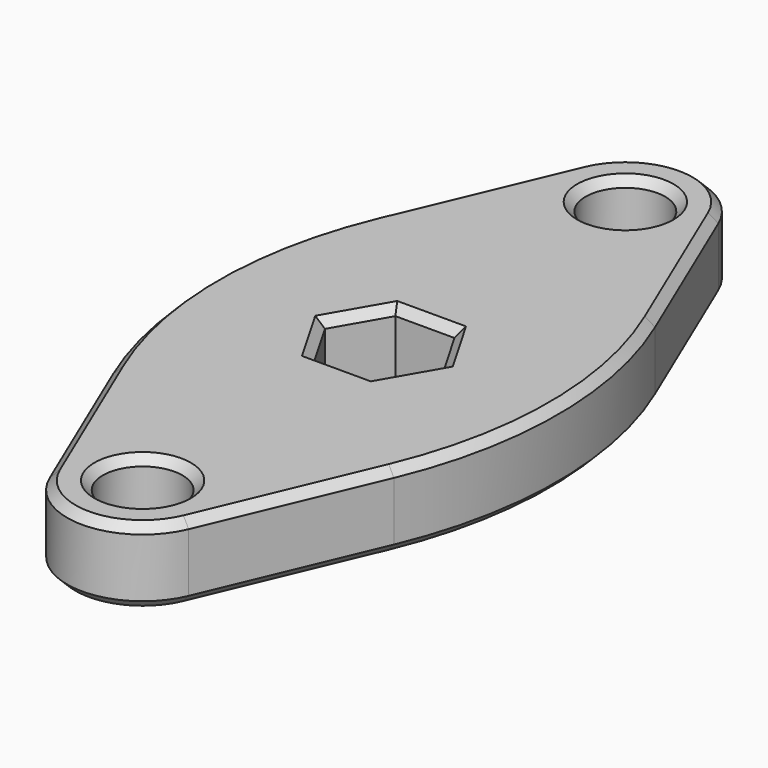
from build123d import *

# Parameters (mm, degrees)
F0_R     = 4.75
F1_DEPTH = 4.5
F2_R     = 50
F3_SIZE  = 1
F5_DEPTH = 25
F6_SIZE  = 1


with BuildPart() as f1:
    # F0 (on Top) → F1 (new body, symmetric)
    with BuildSketch(Plane.XY):
        with BuildLine():
            Line((25, 0), (8.288939, 39.506208))
            ThreePointArc((8.288939, 39.506208), (0, 45), (-8.288939, 39.506208))
            Line((-8.288939, 39.506208), (-25, 0))
            Line((-25, 0), (-8.288939, -39.506208))
            ThreePointArc((-8.288939, -39.506208), (0, -45), (8.288939, -39.506208))
            Line((8.288939, -39.506208), (25, 0))
        make_face()
        with Locations((0, -36)):
            Circle(F0_R, mode=Mode.SUBTRACT)
        with Locations((0, 36)):
            Circle(F0_R, mode=Mode.SUBTRACT)
    extrude(amount=F1_DEPTH, both=True)

    # F2
    f2_edges = [f1.edges().sort_by_distance(p)[0] for p in [
        (-25, 0, 0),
        (25, 0, 0),
    ]]
    fillet(f2_edges, radius=F2_R)

    # F3
    f3_edges = [f1.edges().sort_by_distance(p)[0] for p in [
        (0, 45, 4.5),
        (0, 45, -4.5),
        (-12.524692, -29.492569, 4.5),
        (-12.524692, -29.492569, -4.5),
    ]]
    chamfer(f3_edges, length=F3_SIZE)

    # F4 (on face) → F5 (cut)
    with BuildSketch(Plane.XY.offset(4.5)):
        Polygon((-3.525, 6.105479), (-7.05, 0), (-3.525, -6.105479), (3.525, -6.105479), (7.05, 0), (3.525, 6.105479), align=None)
    extrude(amount=-F5_DEPTH, mode=Mode.SUBTRACT)

    # F6
    f6_edges = [f1.edges().sort_by_distance(p)[0] for p in [
        (-4.75, 36, 4.5),
        (-4.75, 36, -4.5),
        (-4.75, -36, 4.5),
        (-4.75, -36, -4.5),
        (0, -6.105479, 4.5),
        (-5.2875, -3.05274, 4.5),
        (-5.2875, 3.05274, 4.5),
        (0, 6.105479, 4.5),
        (5.2875, 3.05274, 4.5),
        (5.2875, -3.05274, 4.5),
        (0, -6.105479, -4.5),
        (5.2875, -3.05274, -4.5),
        (5.2875, 3.05274, -4.5),
        (0, 6.105479, -4.5),
        (-5.2875, 3.05274, -4.5),
    ]]
    chamfer(f6_edges, length=F6_SIZE)


solid = f1.part
